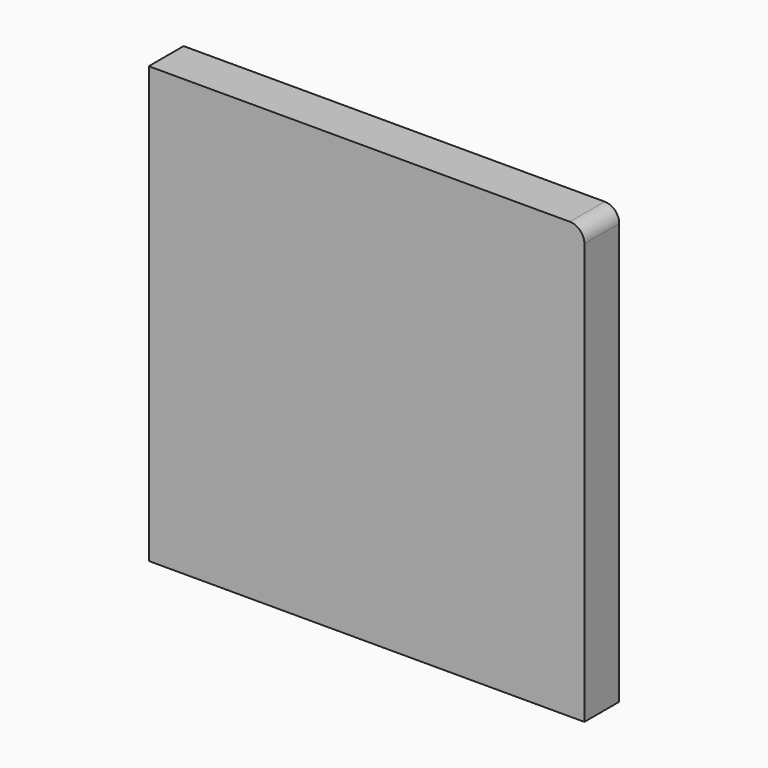
from build123d import *

# Parameters (mm, degrees)
F0_W     = 150
F0_H     = 150
F1_DEPTH = 15
F2_R     = 5


with BuildPart() as f1:
    # F0 (on Front) → F1 (new body)
    with BuildSketch(Plane.XZ):
        Rectangle(F0_W, F0_H)
    extrude(amount=F1_DEPTH)

    # F2
    f2_edges = [f1.edges().sort_by_distance(p)[0] for p in [
        (75, -7.5, 75),
    ]]
    fillet(f2_edges, radius=F2_R)


solid = f1.part
